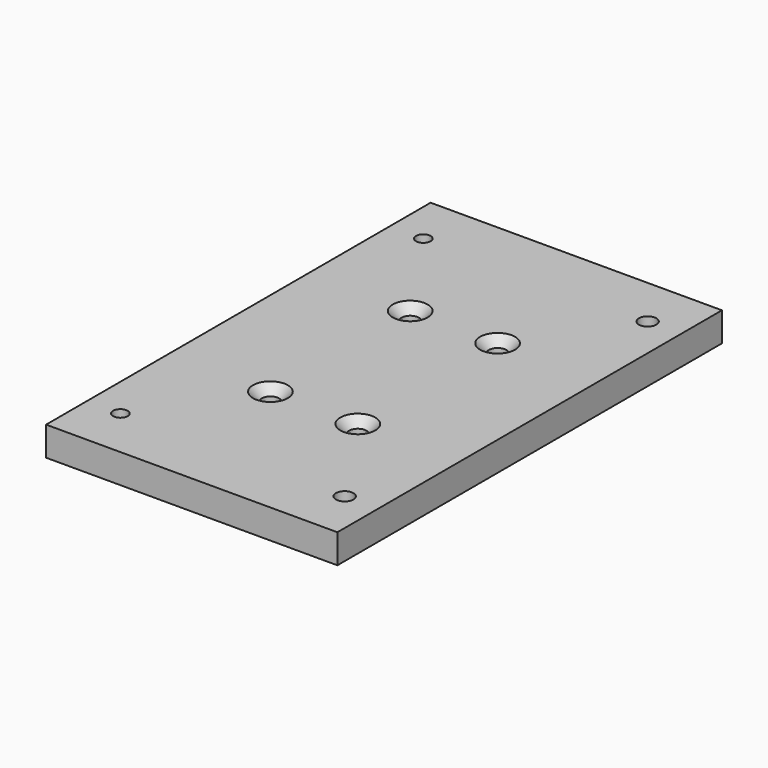
from build123d import *

# Parameters (mm, degrees)
F0_W           = 100
F0_H           = 165
F0_R           = 2.5
F0_R_2         = 3
F1_DEPTH       = 10
F2_D           = 6
F2_CSINK_D     = 12
F2_CSINK_ANGLE = 90
F3_D           = 6


with BuildPart() as f1:
    # F0 (on Top) → F1 (new body)
    with BuildSketch(Plane.XY):
        Rectangle(F0_W, F0_H)
        with Locations((-38.5, -65)):
            Circle(F0_R, mode=Mode.SUBTRACT)
        with Locations((-15, -30)):
            Circle(F0_R_2, mode=Mode.SUBTRACT)
        with Locations((38.5, -65)):
            Circle(F0_R, mode=Mode.SUBTRACT)
        with Locations((15, -30)):
            Circle(F0_R_2, mode=Mode.SUBTRACT)
        with Locations((-15, 30)):
            Circle(F0_R_2, mode=Mode.SUBTRACT)
        with Locations((-38.5, 65)):
            Circle(F0_R, mode=Mode.SUBTRACT)
        with Locations((15, 30)):
            Circle(F0_R_2, mode=Mode.SUBTRACT)
        with Locations((38.5, 65)):
            Circle(F0_R, mode=Mode.SUBTRACT)
        with Locations((-15, 30)):
            Circle(F0_R_2)
        with Locations((-15, -30)):
            Circle(F0_R_2)
        with Locations((15, -30)):
            Circle(F0_R_2)
        with Locations((38.5, -65)):
            Circle(F0_R)
        with Locations((15, 30)):
            Circle(F0_R_2)
        with Locations((38.5, 65)):
            Circle(F0_R)
    extrude(amount=-F1_DEPTH)

    # F2 (through all)
    with Locations(Plane.XY):
        with Locations((-15, 30), (15, 30), (-15, -30), (15, -30)):
            CounterSinkHole(F2_D / 2, F2_CSINK_D / 2, counter_sink_angle=F2_CSINK_ANGLE)

    # F3 (through all)
    with Locations(Plane.XY):
        with Locations((38.5, 65), (38.5, -65)):
            Hole(F3_D / 2)


solid = f1.part
